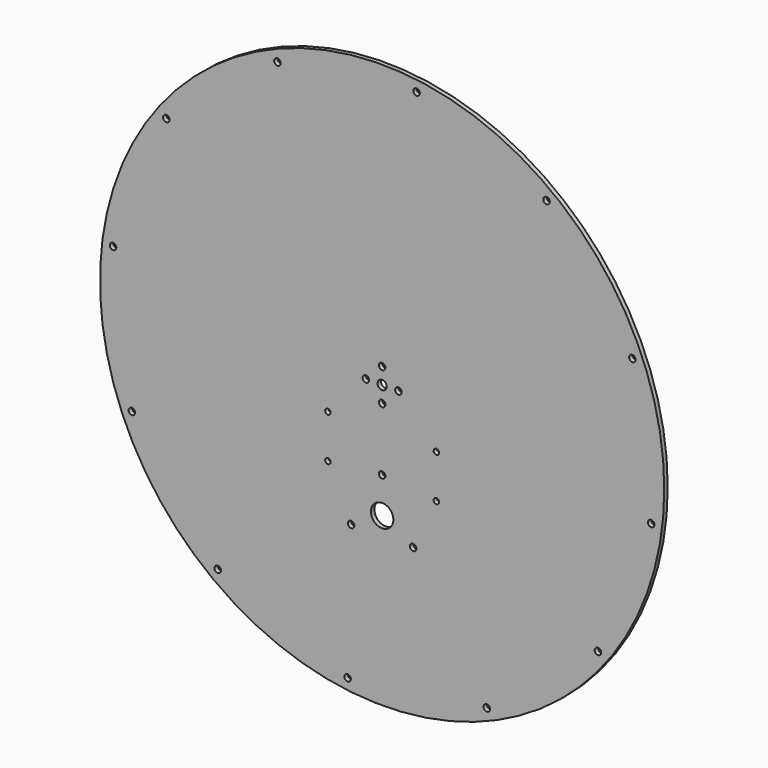
from build123d import *

# Parameters (mm, degrees)
F0_R     = 130
F0_R_2   = 1.5
F0_R_3   = 5.1626329884
F0_R_4   = 2.1101846968
F1_DEPTH = 2


with BuildPart() as f1:
    # F0 (on Front) → F1 (new body)
    with BuildSketch(Plane.XZ):
        Circle(F0_R)
        with Locations((-75.7516729819, -99.43180598)):
            Circle(F0_R_2, mode=Mode.SUBTRACT)
        with Locations((-15.8869701915, -123.9863064138)):
            Circle(F0_R_2, mode=Mode.SUBTRACT)
        with Locations((-115.3187761715, -48.2346334319)):
            Circle(F0_R_2, mode=Mode.SUBTRACT)
        with Locations((-14.2894191624, -61.25)):
            Circle(F0_R_2, mode=Mode.SUBTRACT)
        with Locations((48.2346334319, -115.3187761715)):
            Circle(F0_R_2, mode=Mode.SUBTRACT)
        with Locations((99.43180598, -75.7516729819)):
            Circle(F0_R_2, mode=Mode.SUBTRACT)
        with Locations((14.2894191624, -61.25)):
            Circle(F0_R_2, mode=Mode.SUBTRACT)
        with Locations((0, -53)):
            Circle(F0_R_3, mode=Mode.SUBTRACT)
        with BuildLine():
            Line((23.75, -39), (-23.75, -39))
            ThreePointArc((-23.75, -39), (-25.8838834765, -39.8838834765), (-25, -37.75))
            Line((-25, -37.75), (-25, -20.25))
            ThreePointArc((-25, -20.25), (-25.8838834765, -18.1161165235), (-23.75, -19))
            Line((-23.75, -19), (23.75, -19))
            ThreePointArc((23.75, -19), (25, -17.75), (26.25, -19))
            ThreePointArc((26.25, -19), (25.8838834765, -19.8838834765), (25, -20.25))
            Line((25, -20.25), (25, -37.75))
            ThreePointArc((25, -37.75), (25.8838834765, -38.1161165235), (26.25, -39))
            ThreePointArc((26.25, -39), (25, -40.25), (23.75, -39))
        make_face(mode=Mode.SUBTRACT)
        with Locations((0, -7.5)):
            Circle(F0_R_2, mode=Mode.SUBTRACT)
        with Locations((123.9863064138, -15.8869701915)):
            Circle(F0_R_2, mode=Mode.SUBTRACT)
        with Locations((-123.9863064138, 15.8869701915)):
            Circle(F0_R_2, mode=Mode.SUBTRACT)
        with Locations((-7.5, 0)):
            Circle(F0_R_2, mode=Mode.SUBTRACT)
        with Locations((-99.43180598, 75.7516729819)):
            Circle(F0_R_2, mode=Mode.SUBTRACT)
        with BuildLine():
            ThreePointArc((-46.7346334319, 115.3187761715), (-49.7312498935, 115.2180827424), (-46.7481523208, 115.519708763))
            ThreePointArc((-46.7481523208, 115.519708763), (-46.7380169702, 115.4194696006), (-46.7346334319, 115.3187761715))
        make_face(mode=Mode.SUBTRACT)
        Circle(F0_R_4, mode=Mode.SUBTRACT)
        with Locations((7.5, 0)):
            Circle(F0_R_2, mode=Mode.SUBTRACT)
        with Locations((0, 7.5)):
            Circle(F0_R_2, mode=Mode.SUBTRACT)
        with Locations((115.3187761715, 48.2346334319)):
            Circle(F0_R_2, mode=Mode.SUBTRACT)
        with BuildLine():
            ThreePointArc((17.3869701915, 123.9863064138), (15.9876636207, 122.4896899521), (14.4004890804, 123.7853738223))
            ThreePointArc((14.4004890804, 123.7853738223), (15.7862767624, 125.4829228755), (17.3869701915, 123.9863064138))
        make_face(mode=Mode.SUBTRACT)
        with Locations((75.7516729819, 99.43180598)):
            Circle(F0_R_2, mode=Mode.SUBTRACT)
        with BuildLine():
            ThreePointArc((-25, -37.75), (-24.1161165235, -38.1161165235), (-23.75, -39))
            Line((-23.75, -39), (23.75, -39))
            ThreePointArc((23.75, -39), (24.1161165235, -38.1161165235), (25, -37.75))
            Line((25, -37.75), (25, -20.25))
            ThreePointArc((25, -20.25), (24.1161165235, -19.8838834765), (23.75, -19))
            Line((23.75, -19), (-23.75, -19))
            ThreePointArc((-23.75, -19), (-24.1161165235, -19.8838834765), (-25, -20.25))
            Line((-25, -20.25), (-25, -37.75))
        make_face()
        with Locations((0, -36.5)):
            Circle(F0_R_2, mode=Mode.SUBTRACT)
    extrude(amount=F1_DEPTH)


solid = f1.part
